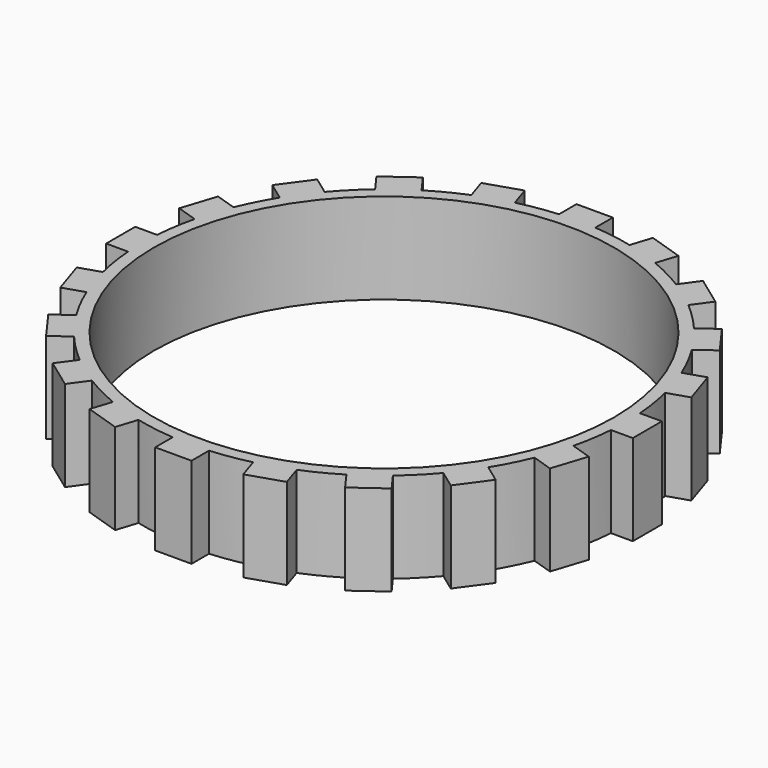
from build123d import *

# Parameters (mm, degrees)
F0_R     = 38
F1_DEPTH = 15


with BuildPart() as f1:
    # F0 (on Top) → F1 (new body)
    with BuildSketch(Plane.XY):
        with BuildLine():
            ThreePointArc((39.8873413504, -3), (39.971825415, -1.5010572917), (40, 0))
            ThreePointArc((40, 0), (39.971825415, 1.5010572917), (39.8873413504, 3))
            Line((39.8873413504, 3), (39.5, 3))
            Line((39.5, 3), (39.5, -3))
            Line((39.5, -3), (39.8873413504, -3))
        make_face()
        with BuildLine():
            ThreePointArc((39.8873413504, 3), (39.971825415, 1.5010572917), (40, 0))
            ThreePointArc((40, 0), (39.971825415, -1.5010572917), (39.8873413504, -3))
            Line((39.8873413504, -3), (43.5, -3))
            Line((43.5, -3), (43.5, 3))
            Line((43.5, 3), (39.8873413504, 3))
        make_face()
        with BuildLine():
            Line((39.5, 3), (39.8873413504, 3))
            ThreePointArc((39.8873413504, 3), (39.5075336238, 6.2573786016), (38.8621668921, 9.4726967888))
            Line((38.8621668921, 9.4726967888), (38.4937833768, 9.3530017289))
            Line((38.4937833768, 9.3530017289), (36.6396814105, 15.0593408267))
            Line((36.6396814105, 15.0593408267), (37.0080649258, 15.1790358866))
            ThreePointArc((37.0080649258, 15.1790358866), (35.6402609675, 18.1596199896), (34.0328927698, 21.0181400158))
            Line((34.0328927698, 21.0181400158), (33.7195270347, 20.7904664824))
            Line((33.7195270347, 20.7904664824), (30.1928155209, 25.6445684487))
            Line((30.1928155209, 25.6445684487), (30.506181256, 25.872241982))
            ThreePointArc((30.506181256, 25.872241982), (28.2842712475, 28.2842712475), (25.872241982, 30.506181256))
            Line((25.872241982, 30.506181256), (25.6445684487, 30.1928155209))
            Line((25.6445684487, 30.1928155209), (20.7904664824, 33.7195270347))
            Line((20.7904664824, 33.7195270347), (21.0181400158, 34.0328927698))
            ThreePointArc((21.0181400158, 34.0328927698), (18.1596199896, 35.6402609675), (15.1790358866, 37.0080649258))
            Line((15.1790358866, 37.0080649258), (15.0593408267, 36.6396814105))
            Line((15.0593408267, 36.6396814105), (9.3530017289, 38.4937833768))
            Line((9.3530017289, 38.4937833768), (9.4726967888, 38.8621668921))
            ThreePointArc((9.4726967888, 38.8621668921), (6.2573786016, 39.5075336238), (3, 39.8873413504))
            Line((3, 39.8873413504), (3, 39.5))
            Line((3, 39.5), (-3, 39.5))
            Line((-3, 39.5), (-3, 39.8873413504))
            ThreePointArc((-3, 39.8873413504), (-6.2573786016, 39.5075336238), (-9.4726967888, 38.8621668921))
            Line((-9.4726967888, 38.8621668921), (-9.3530017289, 38.4937833768))
            Line((-9.3530017289, 38.4937833768), (-15.0593408267, 36.6396814105))
            Line((-15.0593408267, 36.6396814105), (-15.1790358866, 37.0080649258))
            ThreePointArc((-15.1790358866, 37.0080649258), (-18.1596199896, 35.6402609675), (-21.0181400158, 34.0328927698))
            Line((-21.0181400158, 34.0328927698), (-20.7904664824, 33.7195270347))
            Line((-20.7904664824, 33.7195270347), (-25.6445684487, 30.1928155209))
            Line((-25.6445684487, 30.1928155209), (-25.872241982, 30.506181256))
            ThreePointArc((-25.872241982, 30.506181256), (-28.2842712475, 28.2842712475), (-30.506181256, 25.872241982))
            Line((-30.506181256, 25.872241982), (-30.1928155209, 25.6445684487))
            Line((-30.1928155209, 25.6445684487), (-33.7195270347, 20.7904664824))
            Line((-33.7195270347, 20.7904664824), (-34.0328927698, 21.0181400158))
            ThreePointArc((-34.0328927698, 21.0181400158), (-35.6402609675, 18.1596199896), (-37.0080649258, 15.1790358866))
            Line((-37.0080649258, 15.1790358866), (-36.6396814105, 15.0593408267))
            Line((-36.6396814105, 15.0593408267), (-38.4937833768, 9.3530017289))
            Line((-38.4937833768, 9.3530017289), (-38.8621668921, 9.4726967888))
            ThreePointArc((-38.8621668921, 9.4726967888), (-39.5075336238, 6.2573786016), (-39.8873413504, 3))
            Line((-39.8873413504, 3), (-39.5, 3))
            Line((-39.5, 3), (-39.5, -3))
            Line((-39.5, -3), (-39.8873413504, -3))
            ThreePointArc((-39.8873413504, -3), (-39.5075336238, -6.2573786016), (-38.8621668921, -9.4726967888))
            Line((-38.8621668921, -9.4726967888), (-38.4937833768, -9.3530017289))
            Line((-38.4937833768, -9.3530017289), (-36.6396814105, -15.0593408267))
            Line((-36.6396814105, -15.0593408267), (-37.0080649258, -15.1790358866))
            ThreePointArc((-37.0080649258, -15.1790358866), (-35.6402609675, -18.1596199896), (-34.0328927698, -21.0181400158))
            Line((-34.0328927698, -21.0181400158), (-33.7195270347, -20.7904664824))
            Line((-33.7195270347, -20.7904664824), (-30.1928155209, -25.6445684487))
            Line((-30.1928155209, -25.6445684487), (-30.506181256, -25.872241982))
            ThreePointArc((-30.506181256, -25.872241982), (-28.2842712475, -28.2842712475), (-25.872241982, -30.506181256))
            Line((-25.872241982, -30.506181256), (-25.6445684487, -30.1928155209))
            Line((-25.6445684487, -30.1928155209), (-20.7904664824, -33.7195270347))
            Line((-20.7904664824, -33.7195270347), (-21.0181400158, -34.0328927698))
            ThreePointArc((-21.0181400158, -34.0328927698), (-18.1596199896, -35.6402609675), (-15.1790358866, -37.0080649258))
            Line((-15.1790358866, -37.0080649258), (-15.0593408267, -36.6396814105))
            Line((-15.0593408267, -36.6396814105), (-9.3530017289, -38.4937833768))
            Line((-9.3530017289, -38.4937833768), (-9.4726967888, -38.8621668921))
            ThreePointArc((-9.4726967888, -38.8621668921), (-6.2573786016, -39.5075336238), (-3, -39.8873413504))
            Line((-3, -39.8873413504), (-3, -39.5))
            Line((-3, -39.5), (3, -39.5))
            Line((3, -39.5), (3, -39.8873413504))
            ThreePointArc((3, -39.8873413504), (6.2573786016, -39.5075336238), (9.4726967888, -38.8621668921))
            Line((9.4726967888, -38.8621668921), (9.3530017289, -38.4937833768))
            Line((9.3530017289, -38.4937833768), (15.0593408267, -36.6396814105))
            Line((15.0593408267, -36.6396814105), (15.1790358866, -37.0080649258))
            ThreePointArc((15.1790358866, -37.0080649258), (18.1596199896, -35.6402609675), (21.0181400158, -34.0328927698))
            Line((21.0181400158, -34.0328927698), (20.7904664824, -33.7195270347))
            Line((20.7904664824, -33.7195270347), (25.6445684487, -30.1928155209))
            Line((25.6445684487, -30.1928155209), (25.872241982, -30.506181256))
            ThreePointArc((25.872241982, -30.506181256), (28.2842712475, -28.2842712475), (30.506181256, -25.872241982))
            Line((30.506181256, -25.872241982), (30.1928155209, -25.6445684487))
            Line((30.1928155209, -25.6445684487), (33.7195270347, -20.7904664824))
            Line((33.7195270347, -20.7904664824), (34.0328927698, -21.0181400158))
            ThreePointArc((34.0328927698, -21.0181400158), (35.6402609675, -18.1596199896), (37.0080649258, -15.1790358866))
            Line((37.0080649258, -15.1790358866), (36.6396814105, -15.0593408267))
            Line((36.6396814105, -15.0593408267), (38.4937833768, -9.3530017289))
            Line((38.4937833768, -9.3530017289), (38.8621668921, -9.4726967888))
            ThreePointArc((38.8621668921, -9.4726967888), (39.5075336238, -6.2573786016), (39.8873413504, -3))
            Line((39.8873413504, -3), (39.5, -3))
            Line((39.5, -3), (39.5, 3))
        make_face()
        Circle(F0_R, mode=Mode.SUBTRACT)
        with BuildLine():
            Line((38.4937833768, 9.3530017289), (38.8621668921, 9.4726967888))
            ThreePointArc((38.8621668921, 9.4726967888), (38.0422606518, 12.360679775), (37.0080649258, 15.1790358866))
            Line((37.0080649258, 15.1790358866), (36.6396814105, 15.0593408267))
            Line((36.6396814105, 15.0593408267), (38.4937833768, 9.3530017289))
        make_face()
        with BuildLine():
            ThreePointArc((37.0080649258, 15.1790358866), (38.0422606518, 12.360679775), (38.8621668921, 9.4726967888))
            Line((38.8621668921, 9.4726967888), (42.298009442, 10.5890697064))
            Line((42.298009442, 10.5890697064), (40.4439074757, 16.2954088042))
            Line((40.4439074757, 16.2954088042), (37.0080649258, 15.1790358866))
        make_face()
        with BuildLine():
            Line((42.298009442, -10.5890697064), (38.8621668921, -9.4726967888))
            ThreePointArc((38.8621668921, -9.4726967888), (38.0422606518, -12.360679775), (37.0080649258, -15.1790358866))
            Line((37.0080649258, -15.1790358866), (40.4439074757, -16.2954088042))
            Line((40.4439074757, -16.2954088042), (42.298009442, -10.5890697064))
        make_face()
        with BuildLine():
            ThreePointArc((37.0080649258, -15.1790358866), (38.0422606518, -12.360679775), (38.8621668921, -9.4726967888))
            Line((38.8621668921, -9.4726967888), (38.4937833768, -9.3530017289))
            Line((38.4937833768, -9.3530017289), (36.6396814105, -15.0593408267))
            Line((36.6396814105, -15.0593408267), (37.0080649258, -15.1790358866))
        make_face()
        with BuildLine():
            Line((33.7195270347, 20.7904664824), (34.0328927698, 21.0181400158))
            ThreePointArc((34.0328927698, 21.0181400158), (32.360679775, 23.5114100917), (30.506181256, 25.872241982))
            Line((30.506181256, 25.872241982), (30.1928155209, 25.6445684487))
            Line((30.1928155209, 25.6445684487), (33.7195270347, 20.7904664824))
        make_face()
        with BuildLine():
            ThreePointArc((30.506181256, 25.872241982), (32.360679775, 23.5114100917), (34.0328927698, 21.0181400158))
            Line((34.0328927698, 21.0181400158), (36.9555950122, 23.1416074916))
            Line((36.9555950122, 23.1416074916), (33.4288834984, 27.9957094578))
            Line((33.4288834984, 27.9957094578), (30.506181256, 25.872241982))
        make_face()
        with BuildLine():
            Line((36.9555950122, -23.1416074916), (34.0328927698, -21.0181400158))
            ThreePointArc((34.0328927698, -21.0181400158), (32.360679775, -23.5114100917), (30.506181256, -25.872241982))
            Line((30.506181256, -25.872241982), (33.4288834984, -27.9957094578))
            Line((33.4288834984, -27.9957094578), (36.9555950122, -23.1416074916))
        make_face()
        with BuildLine():
            ThreePointArc((30.506181256, -25.872241982), (32.360679775, -23.5114100917), (34.0328927698, -21.0181400158))
            Line((34.0328927698, -21.0181400158), (33.7195270347, -20.7904664824))
            Line((33.7195270347, -20.7904664824), (30.1928155209, -25.6445684487))
            Line((30.1928155209, -25.6445684487), (30.506181256, -25.872241982))
        make_face()
        with BuildLine():
            Line((25.6445684487, 30.1928155209), (25.872241982, 30.506181256))
            ThreePointArc((25.872241982, 30.506181256), (23.5114100917, 32.360679775), (21.0181400158, 34.0328927698))
            Line((21.0181400158, 34.0328927698), (20.7904664824, 33.7195270347))
            Line((20.7904664824, 33.7195270347), (25.6445684487, 30.1928155209))
        make_face()
        with BuildLine():
            ThreePointArc((21.0181400158, 34.0328927698), (23.5114100917, 32.360679775), (25.872241982, 30.506181256))
            Line((25.872241982, 30.506181256), (27.9957094578, 33.4288834984))
            Line((27.9957094578, 33.4288834984), (23.1416074916, 36.9555950122))
            Line((23.1416074916, 36.9555950122), (21.0181400158, 34.0328927698))
        make_face()
        with BuildLine():
            Line((27.9957094578, -33.4288834984), (25.872241982, -30.506181256))
            ThreePointArc((25.872241982, -30.506181256), (23.5114100917, -32.360679775), (21.0181400158, -34.0328927698))
            Line((21.0181400158, -34.0328927698), (23.1416074916, -36.9555950122))
            Line((23.1416074916, -36.9555950122), (27.9957094578, -33.4288834984))
        make_face()
        with BuildLine():
            ThreePointArc((21.0181400158, -34.0328927698), (23.5114100917, -32.360679775), (25.872241982, -30.506181256))
            Line((25.872241982, -30.506181256), (25.6445684487, -30.1928155209))
            Line((25.6445684487, -30.1928155209), (20.7904664824, -33.7195270347))
            Line((20.7904664824, -33.7195270347), (21.0181400158, -34.0328927698))
        make_face()
        with BuildLine():
            Line((15.0593408267, 36.6396814105), (15.1790358866, 37.0080649258))
            ThreePointArc((15.1790358866, 37.0080649258), (12.360679775, 38.0422606518), (9.4726967888, 38.8621668921))
            Line((9.4726967888, 38.8621668921), (9.3530017289, 38.4937833768))
            Line((9.3530017289, 38.4937833768), (15.0593408267, 36.6396814105))
        make_face()
        with BuildLine():
            ThreePointArc((9.4726967888, 38.8621668921), (12.360679775, 38.0422606518), (15.1790358866, 37.0080649258))
            Line((15.1790358866, 37.0080649258), (16.2954088042, 40.4439074757))
            Line((16.2954088042, 40.4439074757), (10.5890697064, 42.298009442))
            Line((10.5890697064, 42.298009442), (9.4726967888, 38.8621668921))
        make_face()
        with BuildLine():
            Line((16.2954088042, -40.4439074757), (15.1790358866, -37.0080649258))
            ThreePointArc((15.1790358866, -37.0080649258), (12.360679775, -38.0422606518), (9.4726967888, -38.8621668921))
            Line((9.4726967888, -38.8621668921), (10.5890697064, -42.298009442))
            Line((10.5890697064, -42.298009442), (16.2954088042, -40.4439074757))
        make_face()
        with BuildLine():
            ThreePointArc((9.4726967888, -38.8621668921), (12.360679775, -38.0422606518), (15.1790358866, -37.0080649258))
            Line((15.1790358866, -37.0080649258), (15.0593408267, -36.6396814105))
            Line((15.0593408267, -36.6396814105), (9.3530017289, -38.4937833768))
            Line((9.3530017289, -38.4937833768), (9.4726967888, -38.8621668921))
        make_face()
        with BuildLine():
            Line((3, 39.5), (3, 39.8873413504))
            ThreePointArc((3, 39.8873413504), (0, 40), (-3, 39.8873413504))
            Line((-3, 39.8873413504), (-3, 39.5))
            Line((-3, 39.5), (3, 39.5))
        make_face()
        with BuildLine():
            ThreePointArc((-3, 39.8873413504), (0, 40), (3, 39.8873413504))
            Line((3, 39.8873413504), (3, 43.5))
            Line((3, 43.5), (-3, 43.5))
            Line((-3, 43.5), (-3, 39.8873413504))
        make_face()
        with BuildLine():
            Line((3, -43.5), (3, -39.8873413504))
            ThreePointArc((3, -39.8873413504), (0, -40), (-3, -39.8873413504))
            Line((-3, -39.8873413504), (-3, -43.5))
            Line((-3, -43.5), (3, -43.5))
        make_face()
        with BuildLine():
            ThreePointArc((-3, -39.8873413504), (0, -40), (3, -39.8873413504))
            Line((3, -39.8873413504), (3, -39.5))
            Line((3, -39.5), (-3, -39.5))
            Line((-3, -39.5), (-3, -39.8873413504))
        make_face()
        with BuildLine():
            Line((-9.3530017289, 38.4937833768), (-9.4726967888, 38.8621668921))
            ThreePointArc((-9.4726967888, 38.8621668921), (-12.360679775, 38.0422606518), (-15.1790358866, 37.0080649258))
            Line((-15.1790358866, 37.0080649258), (-15.0593408267, 36.6396814105))
            Line((-15.0593408267, 36.6396814105), (-9.3530017289, 38.4937833768))
        make_face()
        with BuildLine():
            ThreePointArc((-15.1790358866, 37.0080649258), (-12.360679775, 38.0422606518), (-9.4726967888, 38.8621668921))
            Line((-9.4726967888, 38.8621668921), (-10.5890697064, 42.298009442))
            Line((-10.5890697064, 42.298009442), (-16.2954088042, 40.4439074757))
            Line((-16.2954088042, 40.4439074757), (-15.1790358866, 37.0080649258))
        make_face()
        with BuildLine():
            Line((-10.5890697064, -42.298009442), (-9.4726967888, -38.8621668921))
            ThreePointArc((-9.4726967888, -38.8621668921), (-12.360679775, -38.0422606518), (-15.1790358866, -37.0080649258))
            Line((-15.1790358866, -37.0080649258), (-16.2954088042, -40.4439074757))
            Line((-16.2954088042, -40.4439074757), (-10.5890697064, -42.298009442))
        make_face()
        with BuildLine():
            ThreePointArc((-15.1790358866, -37.0080649258), (-12.360679775, -38.0422606518), (-9.4726967888, -38.8621668921))
            Line((-9.4726967888, -38.8621668921), (-9.3530017289, -38.4937833768))
            Line((-9.3530017289, -38.4937833768), (-15.0593408267, -36.6396814105))
            Line((-15.0593408267, -36.6396814105), (-15.1790358866, -37.0080649258))
        make_face()
        with BuildLine():
            Line((-20.7904664824, 33.7195270347), (-21.0181400158, 34.0328927698))
            ThreePointArc((-21.0181400158, 34.0328927698), (-23.5114100917, 32.360679775), (-25.872241982, 30.506181256))
            Line((-25.872241982, 30.506181256), (-25.6445684487, 30.1928155209))
            Line((-25.6445684487, 30.1928155209), (-20.7904664824, 33.7195270347))
        make_face()
        with BuildLine():
            ThreePointArc((-25.872241982, 30.506181256), (-23.5114100917, 32.360679775), (-21.0181400158, 34.0328927698))
            Line((-21.0181400158, 34.0328927698), (-23.1416074916, 36.9555950122))
            Line((-23.1416074916, 36.9555950122), (-27.9957094578, 33.4288834984))
            Line((-27.9957094578, 33.4288834984), (-25.872241982, 30.506181256))
        make_face()
        with BuildLine():
            Line((-23.1416074916, -36.9555950122), (-21.0181400158, -34.0328927698))
            ThreePointArc((-21.0181400158, -34.0328927698), (-23.5114100917, -32.360679775), (-25.872241982, -30.506181256))
            Line((-25.872241982, -30.506181256), (-27.9957094578, -33.4288834984))
            Line((-27.9957094578, -33.4288834984), (-23.1416074916, -36.9555950122))
        make_face()
        with BuildLine():
            ThreePointArc((-25.872241982, -30.506181256), (-23.5114100917, -32.360679775), (-21.0181400158, -34.0328927698))
            Line((-21.0181400158, -34.0328927698), (-20.7904664824, -33.7195270347))
            Line((-20.7904664824, -33.7195270347), (-25.6445684487, -30.1928155209))
            Line((-25.6445684487, -30.1928155209), (-25.872241982, -30.506181256))
        make_face()
        with BuildLine():
            Line((-30.1928155209, 25.6445684487), (-30.506181256, 25.872241982))
            ThreePointArc((-30.506181256, 25.872241982), (-32.360679775, 23.5114100917), (-34.0328927698, 21.0181400158))
            Line((-34.0328927698, 21.0181400158), (-33.7195270347, 20.7904664824))
            Line((-33.7195270347, 20.7904664824), (-30.1928155209, 25.6445684487))
        make_face()
        with BuildLine():
            ThreePointArc((-34.0328927698, 21.0181400158), (-32.360679775, 23.5114100917), (-30.506181256, 25.872241982))
            Line((-30.506181256, 25.872241982), (-33.4288834984, 27.9957094578))
            Line((-33.4288834984, 27.9957094578), (-36.9555950122, 23.1416074916))
            Line((-36.9555950122, 23.1416074916), (-34.0328927698, 21.0181400158))
        make_face()
        with BuildLine():
            Line((-33.4288834984, -27.9957094578), (-30.506181256, -25.872241982))
            ThreePointArc((-30.506181256, -25.872241982), (-32.360679775, -23.5114100917), (-34.0328927698, -21.0181400158))
            Line((-34.0328927698, -21.0181400158), (-36.9555950122, -23.1416074916))
            Line((-36.9555950122, -23.1416074916), (-33.4288834984, -27.9957094578))
        make_face()
        with BuildLine():
            ThreePointArc((-34.0328927698, -21.0181400158), (-32.360679775, -23.5114100917), (-30.506181256, -25.872241982))
            Line((-30.506181256, -25.872241982), (-30.1928155209, -25.6445684487))
            Line((-30.1928155209, -25.6445684487), (-33.7195270347, -20.7904664824))
            Line((-33.7195270347, -20.7904664824), (-34.0328927698, -21.0181400158))
        make_face()
        with BuildLine():
            Line((-36.6396814105, 15.0593408267), (-37.0080649258, 15.1790358866))
            ThreePointArc((-37.0080649258, 15.1790358866), (-38.0422606518, 12.360679775), (-38.8621668921, 9.4726967888))
            Line((-38.8621668921, 9.4726967888), (-38.4937833768, 9.3530017289))
            Line((-38.4937833768, 9.3530017289), (-36.6396814105, 15.0593408267))
        make_face()
        with BuildLine():
            ThreePointArc((-38.8621668921, 9.4726967888), (-38.0422606518, 12.360679775), (-37.0080649258, 15.1790358866))
            Line((-37.0080649258, 15.1790358866), (-40.4439074757, 16.2954088042))
            Line((-40.4439074757, 16.2954088042), (-42.298009442, 10.5890697064))
            Line((-42.298009442, 10.5890697064), (-38.8621668921, 9.4726967888))
        make_face()
        with BuildLine():
            Line((-40.4439074757, -16.2954088042), (-37.0080649258, -15.1790358866))
            ThreePointArc((-37.0080649258, -15.1790358866), (-38.0422606518, -12.360679775), (-38.8621668921, -9.4726967888))
            Line((-38.8621668921, -9.4726967888), (-42.298009442, -10.5890697064))
            Line((-42.298009442, -10.5890697064), (-40.4439074757, -16.2954088042))
        make_face()
        with BuildLine():
            ThreePointArc((-38.8621668921, -9.4726967888), (-38.0422606518, -12.360679775), (-37.0080649258, -15.1790358866))
            Line((-37.0080649258, -15.1790358866), (-36.6396814105, -15.0593408267))
            Line((-36.6396814105, -15.0593408267), (-38.4937833768, -9.3530017289))
            Line((-38.4937833768, -9.3530017289), (-38.8621668921, -9.4726967888))
        make_face()
        with BuildLine():
            Line((-39.5, 3), (-39.8873413504, 3))
            ThreePointArc((-39.8873413504, 3), (-40, 0), (-39.8873413504, -3))
            Line((-39.8873413504, -3), (-39.5, -3))
            Line((-39.5, -3), (-39.5, 3))
        make_face()
        with BuildLine():
            ThreePointArc((-39.8873413504, -3), (-40, 0), (-39.8873413504, 3))
            Line((-39.8873413504, 3), (-43.5, 3))
            Line((-43.5, 3), (-43.5, -3))
            Line((-43.5, -3), (-39.8873413504, -3))
        make_face()
    extrude(amount=F1_DEPTH)


solid = f1.part
